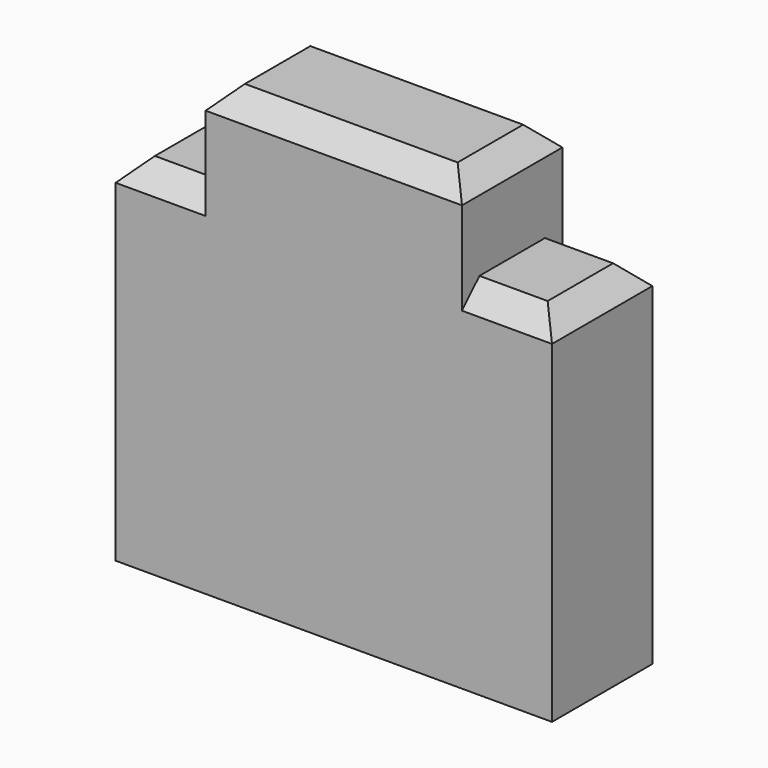
from build123d import *

# Parameters (mm, degrees)
SKETCH008_W     = 4
SKETCH008_H     = 1.15
PAD005_DEPTH    = 4.1
SKETCH009_W     = 0.825
SKETCH009_H     = 0.85
POCKET002_DEPTH = 5
CHAMFER005_SIZE = 0.2


with BuildPart() as part:
    # Sketch008 → Pad005 (new body)
    with BuildSketch(Plane.XY):
        Rectangle(SKETCH008_W, SKETCH008_H)
    extrude(amount=PAD005_DEPTH)

    # Sketch009 (on Face1 of Pad005) → Pocket002 (cut)
    with BuildSketch(Plane(origin=(0, 0.575, 0), x_dir=(-1, 0, 0), z_dir=(0, 1, 0))):
        with Locations((-1.5875, 3.675)):
            Rectangle(SKETCH009_W, SKETCH009_H)
        with Locations((1.5875, 3.675)):
            Rectangle(SKETCH009_W, SKETCH009_H)
    extrude(amount=-POCKET002_DEPTH, mode=Mode.SUBTRACT)

    # Chamfer005
    chamfer005_edges = [part.edges().sort_by_distance(p)[0] for p in [
        (0, 0.575, 4.1),
        (0, -0.575, 4.1),
        (1.5875, 0.575, 3.25),
        (-1.5875, 0.575, 3.25),
        (-1.5875, -0.575, 3.25),
        (1.5875, -0.575, 3.25),
        (2, 0, 3.25),
        (-2, 0, 3.25),
        (1.175, 0, 4.1),
        (-1.175, 0, 4.1),
    ]]
    chamfer(chamfer005_edges, length=CHAMFER005_SIZE)


with BuildPart() as part_1:
    # Body041 placement: moved
    add(part.part.moved(Location((0, 42, 0))))


solid = part_1.part
